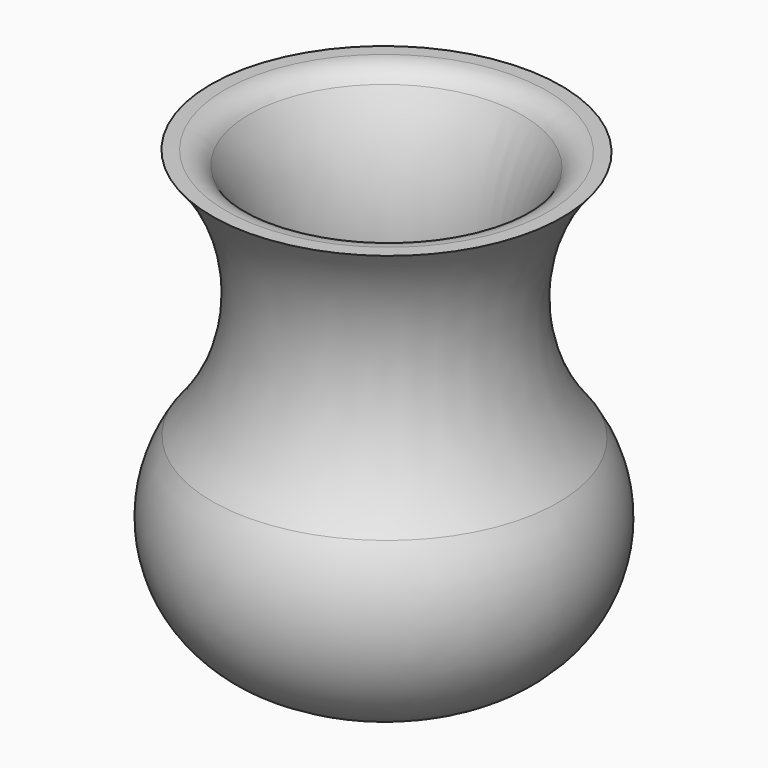
from build123d import *


with BuildPart() as f1:
    # F0 (on Front) → F1 (revolve)
    with BuildSketch(Plane.XZ):
        with BuildLine():
            Line((-32.0444534488, 49.1664660495), (-35.2056861062, 49.1664660495))
            ThreePointArc((-35.2056861062, 49.1664660495), (-24.7500479853, 20.9950525314), (-35.2056861062, -7.1763609868))
            ThreePointArc((-35.2056861062, -7.1763609868), (-36.6363548086, -36.7837824749), (-11.2876612693, -52.149001509))
            Line((-11.2876612693, -52.149001509), (3.2664445462, -52.2633788024))
            Line((3.2664445462, -52.2633788024), (3.3014981769, -47.8029283473))
            Line((3.3014981769, -47.8029283473), (-11.2876612693, -47.6882755756))
            ThreePointArc((-11.2876612693, -47.6882755756), (-32.4301698315, -32.8794586177), (-28.6165023388, -7.3498156853))
            ThreePointArc((-28.6165023388, -7.3498156853), (-19.6441455683, 19.0707096621), (-26.6040017569, 46.0912157174))
            ThreePointArc((-26.6040017569, 46.0912157174), (-28.919726292, 48.3444476157), (-32.0444534488, 49.1664660495))
        make_face()
    revolve(axis=Axis((3.2664199313, 0, -52.2665109653), (-0.0078585221, 0, -0.9999691213)))


solid = f1.part
